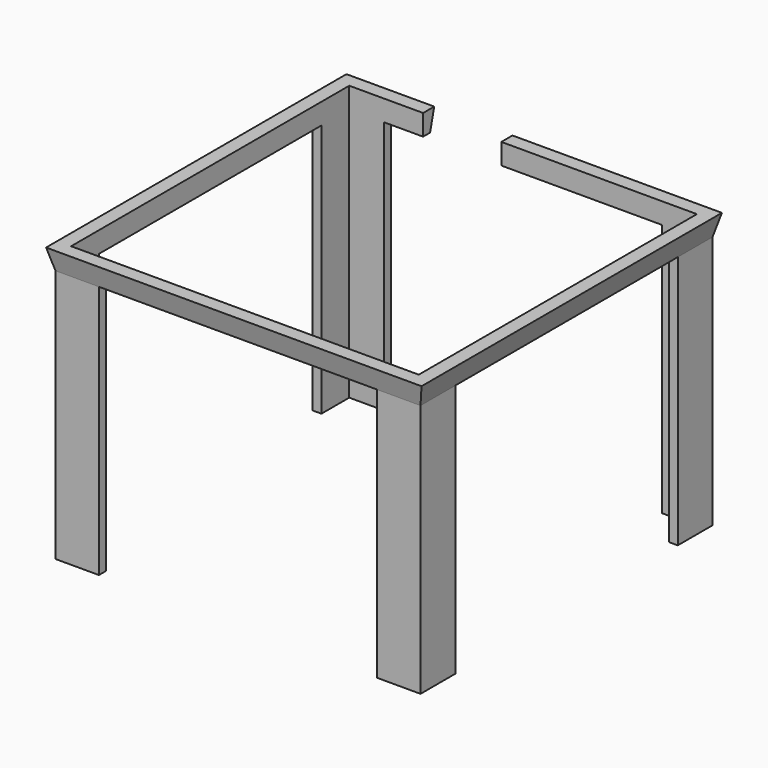
from build123d import *

# Parameters (mm, degrees)
F1_DEPTH = 146
F4_W     = 216
F4_H     = 216
F2_W     = 210
F2_H     = 210
F6_W     = 200
F6_H     = 200
F7_DEPTH = 12
F8_W     = 45
F8_H     = 25
F9_DEPTH = 180


with BuildPart() as f1:
    # F0 (on Top) → F1 (new body)
    with BuildSketch(Plane.XY):
        Polygon((25, 0), (0, 0), (0, -25), (5, -25), (5, -5), (25, -5), align=None)
    extrude(amount=F1_DEPTH)



with BuildPart() as f1b:
    # F0 (on Top) → F1, piece 2 (new body)
    with BuildSketch(Plane.XY):
        Polygon((210, 0), (185, 0), (185, -5), (205, -5), (205, -25), (210, -25), align=None)
    extrude(amount=F1_DEPTH)


with BuildPart() as f1c:
    # F0 (on Top) → F1, piece 3 (new body)
    with BuildSketch(Plane.XY):
        Polygon((5, -185), (0, -185), (0, -210), (25, -210), (25, -205), (5, -205), align=None)
    extrude(amount=F1_DEPTH)


with BuildPart() as f1d:
    # F0 (on Top) → F1, piece 4 (new body)
    with BuildSketch(Plane.XY):
        Polygon((185, -210), (210, -210), (210, -185), (205, -185), (205, -205), (185, -205), align=None)
    extrude(amount=F1_DEPTH)


with BuildPart() as f1_1:
    add(f1.part)

    add(f1b.part)  # F5 merges F1b

    add(f1c.part)  # F5 merges F1c

    add(f1d.part)  # F5 merges F1d
    # F4 (on offset) → F5 section 0
    with BuildSketch(Plane.XY.offset(158)):
        with Locations((105, -105)):
            Rectangle(F4_W, F4_H)
    # F2 (on face) → F5 section 1
    with BuildSketch(Plane.XY.offset(146)):
        with Locations((105, -105)):
            Rectangle(F2_W, F2_H)
    loft()

    # F6 (on face) → F7 (cut)
    with BuildSketch(Plane.XY.offset(158)):
        with Locations((105, -105)):
            Rectangle(F6_W, F6_H)
    extrude(amount=-F7_DEPTH, mode=Mode.SUBTRACT)

    # F8 (on Top) → F9 (cut)
    with BuildSketch(Plane.XY):
        with Locations((70, 7.5)):
            Rectangle(F8_W, F8_H)
    extrude(amount=F9_DEPTH, mode=Mode.SUBTRACT)


solid = f1_1.part
